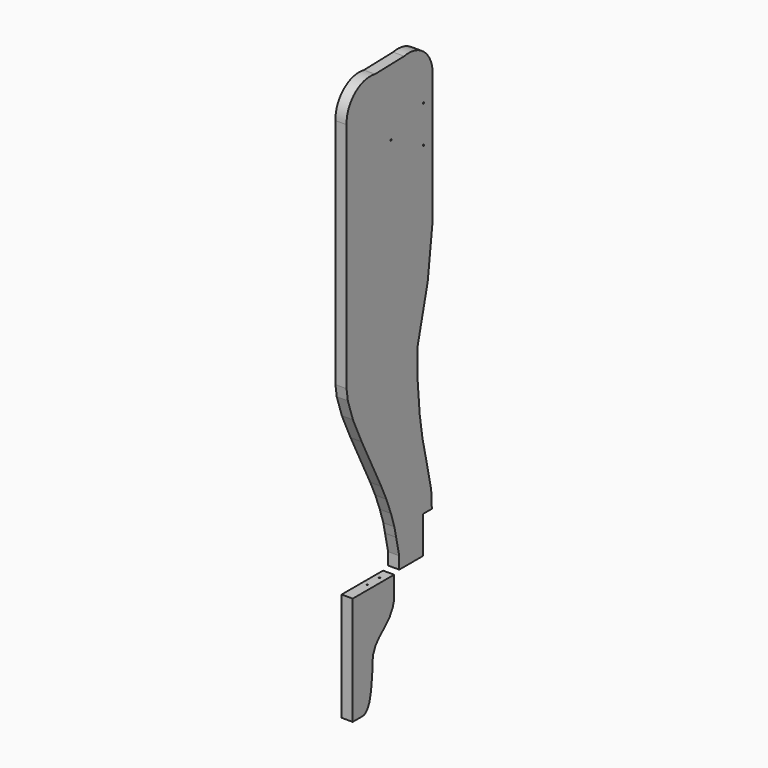
from build123d import *

# Parameters (mm, degrees)
F1_DEPTH       = 19.05
F3_DEPTH       = 19.05
F5_D           = 2.54
F6_D           = 2.54
F6_CBORE_D     = 12.7
F6_CBORE_DEPTH = 6.35


with BuildPart() as f1:
    # F0 (on Right) → F1 (new body)
    with BuildSketch(Plane.YZ):
        with BuildLine():
            Line((-9.4631160864, -145.8767226739), (-9.4631160864, 75.883344673))
            ThreePointArc((-9.4631160864, 75.883344673), (-26.0043887413, 118.4617737239), (-70.0568248432, 130.5414754989))
            Line((-70.0568248432, 130.5414754989), (-132.4960702221, 128.8365857415))
            ThreePointArc((-132.4960702221, 128.8365857415), (-175.5855155906, 117.9432591892), (-193.6131160864, 77.3185070558))
            Line((-193.6131160864, 77.3185070558), (-193.6131160864, 12.8251980523))
            Line((-193.6131160864, 12.8251980523), (-193.6131160864, -321.2538063526))
            Line((-193.6131160864, -321.2538063526), (-190.8701509237, -340.6569361687))
            Line((-190.8701509237, -340.6569361687), (-179.9363493919, -373.8000094891))
            Line((-179.9363493919, -373.8000094891), (-161.1630767584, -414.6291613579))
            Line((-161.1630767584, -414.6291613579), (-119.1362962127, -499.024450779))
            Line((-119.1362962127, -499.024450779), (-108.2024946809, -522.9421257973))
            Line((-108.2024946809, -522.9421257973), (-98.5129252076, -548.2812523842))
            Line((-98.5129252076, -548.2812523842), (-91.0426452756, -571.554005146))
            Line((-91.0426452756, -571.554005146), (-87.3075053096, -588.7931585312))
            Line((-87.3075053096, -588.7931585312), (-80.6437532824, -619.5490189172))
            Line((-80.6437532824, -619.5490189172), (-80.6437532824, -619.8235154152))
            Line((-80.6437532824, -619.8235154152), (-80.6437532824, -629.592359066))
            Line((-80.6437532824, -629.592359066), (-80.6437532824, -640.436412161))
            Line((-80.6437532824, -640.436412161), (-29.8438072205, -640.5104398727))
            Line((-29.8438072205, -640.5104398727), (-29.8438072205, -577.0104398727))
            Line((-29.8438072205, -577.0104398727), (-10.7938072205, -577.0104398727))
            Line((-10.7938072205, -577.0104398727), (-12.1900755912, -547.2014546394))
            Line((-12.1900755912, -547.2014546394), (-20.0487431139, -510.6415748596))
            Line((-20.0487431139, -510.6415748596), (-30.9825371951, -461.7811739445))
            Line((-30.9825371951, -461.7811739445), (-36.7911197245, -423.85455966))
            Line((-36.7911197245, -423.85455966), (-41.2131160864, -370.7598916097))
            Line((-41.2131160864, -370.7598916097), (-41.2131160864, -318.930464129))
            Line((-41.2131160864, -318.930464129), (-19.6600593626, -230.6498885155))
            Line((-19.6600593626, -230.6498885155), (-9.4631160864, -145.8767226739))
        make_face()
    extrude(amount=F1_DEPTH)

    # F6 (through all)
    with Locations(Plane(origin=(0, 0, 0), x_dir=(0, 1, 0), z_dir=(-1, 0, 0))):
        with Locations((-28.5131160864, 20.7620505524), (-28.5131160864, -43.0949992777), (-98.1566741219, -15.4316150452)):
            CounterBoreHole(F6_D / 2, F6_CBORE_D / 2, F6_CBORE_DEPTH)


with BuildPart() as f3:
    # F2 (on Right) → F3 (new body)
    with BuildSketch(Plane.YZ):
        Polygon((-91.5418712854, -681.0708045959), (-91.5418712854, -643.5962540321), (-180.4418712854, -643.5962540321), (-180.4418712854, -829.7782540321), (-163.7063026428, -829.7782540321), (-155.4791927338, -829.4594287872), (-149.5022177696, -824.1996765137), (-144.7206288576, -815.3537511826), (-142.0907527208, -803.8779497147), (-140.1781141758, -791.2067174911), (-138.5045647621, -773.0367183685), (-138.5045647621, -759.4091892242), (-136.5919262171, -745.78166008), (-131.3321888447, -734.2174053192), (-123.5004365444, -725.0301241875), (-108.8912039995, -711.9269967079), (-101.210065186, -703.6434412003), (-94.5831984282, -691.8957829475), align=None)
    extrude(amount=F3_DEPTH)

    # F5 (through all)
    with Locations(Plane.XY.offset(-643.5962540321)):
        with Locations((9.1775171459, -136.9395554066), (9.1775171459, -110.8864918351)):
            Hole(F5_D / 2)


solid = Compound([f1.part, f3.part])
